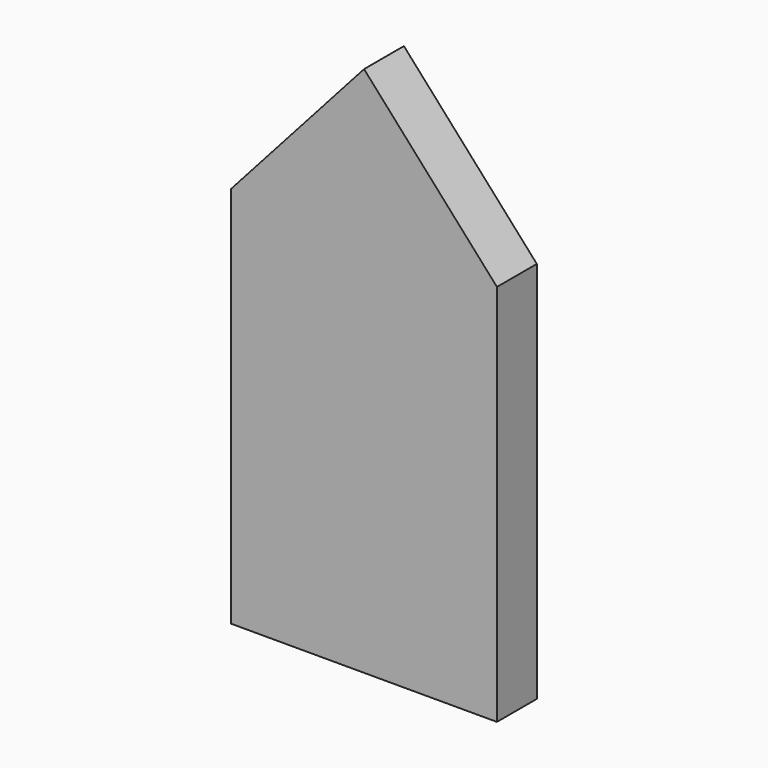
from build123d import *

# Parameters (mm, degrees)
F0_W     = 101.6
F0_H     = 203.2
F1_DEPTH = 19.05
F3_DEPTH = 19.051


with BuildPart() as f1:
    # F0 (on Front) → F1 (new body)
    with BuildSketch(Plane.XZ):
        Rectangle(F0_W, F0_H)
    extrude(amount=F1_DEPTH)

    # F2 (on face) → F3 (cut, through all)
    with BuildSketch(Plane.XZ.offset(19.05)):
        Polygon((-50.8, 44.803873), (0, 101.6), (-50.8, 101.6), align=None)
        Polygon((50.8, 101.6), (0, 101.6), (50.8, 44.803873), align=None)
    extrude(amount=-F3_DEPTH, mode=Mode.SUBTRACT)


solid = f1.part
